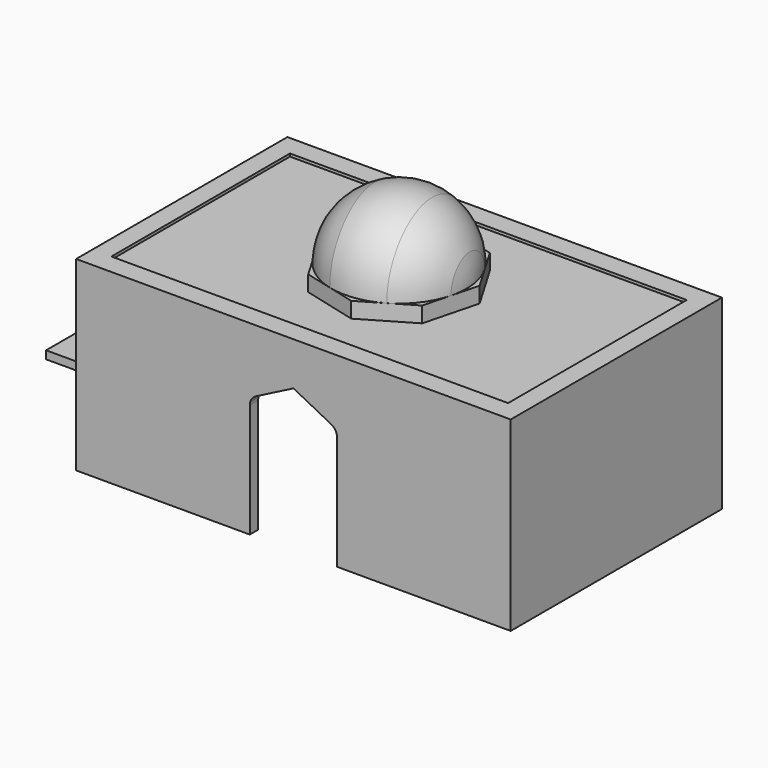
from build123d import *

# Parameters (mm, degrees)
F0_W      = 252.6827454567
F0_H      = 153.5182595253
F1_DEPTH  = 106.6326349974
F3_DEPTH  = 9.122794494
F6_W      = 252.6827454567
F6_H      = 153.5182595253
F6_W_2    = 230.6998372078
F6_H_2    = 129.8055052757
F7_DEPTH  = 1.6219746321
F9_DEPTH  = 6.3263718039
F10_W     = 237.7751469612
F10_H     = 141.5230035782
F11_DEPTH = 98.0363339186
F12_W     = 77.8074264526
F12_H     = 76.2286856771
F13_DEPTH = 4.6427845955


with BuildPart() as f1:
    # F0 (on Top) → F1 (new body)
    with BuildSketch(Plane.XY):
        Rectangle(F0_W, F0_H)
    extrude(amount=F1_DEPTH)

    # F2 (on face) → F3 (join)
    with BuildSketch(Plane.XY.offset(106.6326349974)):
        Polygon((-42.1391663881, -5.9115811494), (-25.6167711882, -33.9770094248), (5.9115811494, -42.1391663881), (33.9770094248, -25.6167711882), (42.1391663881, 5.9115811494), (25.6167711882, 33.9770094248), (-5.9115811494, 42.1391663881), (-33.9770094248, 25.6167711882), align=None)
    extrude(amount=F3_DEPTH)

    # F4 (on face) → F5 (revolve)
    with BuildSketch(Plane.XY.offset(115.7554294914)):
        with BuildLine():
            Line((-38.931513343, -5.4615888287), (38.931513343, 5.4615888287))
            ThreePointArc((38.931513343, 5.4615888287), (37.1179521217, 12.9518073642), (33.8779688325, 19.9442952117))
            ThreePointArc((33.8779688325, 19.9442952117), (23.6668107599, 31.3906634553), (9.852595347, 38.0580878216))
            ThreePointArc((9.852595347, 38.0580878216), (-5.461588509, 38.9315133879), (-19.9442950223, 33.8779689441))
            ThreePointArc((-19.9442950223, 33.8779689441), (-31.3906633892, 23.6668108477), (-38.0580878216, 9.852595347))
            ThreePointArc((-38.0580878216, 9.852595347), (-39.2489583443, 2.2385157127), (-38.931513343, -5.4615888287))
        make_face()
    revolve(axis=Axis((0, 0, 115.7554294914), (0.9903026693, 0.1389266826, 0)))

    # F6 (on face) → F7 (join)
    with BuildSketch(Plane.XY.offset(106.6326349974)):
        Rectangle(F6_W, F6_H)
        Rectangle(F6_W_2, F6_H_2, mode=Mode.SUBTRACT)
        Polygon((-33.9770094248, 25.6167711882), (-42.1391663881, -5.9115811494), (-25.6167711882, -33.9770094248), (5.9115811494, -42.1391663881), (33.9770094248, -25.6167711882), (42.1391663881, 5.9115811494), (25.6167711882, 33.9770094248), (-5.9115811494, 42.1391663881), align=None)
    extrude(amount=F7_DEPTH)

    # F8 (on face) → F9 (cut)
    with BuildSketch(Plane.XZ.offset(76.7591297626)):
        with BuildLine():
            Line((0, 83.0959156156), (0, 0))
            Line((0, 0), (25.3710448742, 0))
            Line((25.3710448742, 0), (25.3710448742, 66.2313618939))
            ThreePointArc((25.3710448742, 66.2313618939), (24.438075472, 69.544710578), (21.9133190466, 71.8844362886))
            Line((21.9133190466, 71.8844362886), (0, 83.0959156156))
        make_face()
        with BuildLine():
            Line((-25.3710448742, 0), (0, 0))
            Line((0, 0), (0, 83.0959156156))
            Line((0, 83.0959156156), (-21.9133190466, 71.8844362886))
            ThreePointArc((-21.9133190466, 71.8844362886), (-24.438075472, 69.544710578), (-25.3710448742, 66.2313618939))
            Line((-25.3710448742, 66.2313618939), (-25.3710448742, 0))
        make_face()
    extrude(amount=-F9_DEPTH, mode=Mode.SUBTRACT)

    # F10 (on face) → F11 (cut)
    with BuildSketch(Plane(origin=(0, 0, 0), x_dir=(1, 0, 0), z_dir=(0, 0, -1))):
        Rectangle(F10_W, F10_H)
    extrude(amount=-F11_DEPTH, mode=Mode.SUBTRACT)


with BuildPart() as f13:
    # F12 (on Top) → F13 (new body)
    with BuildSketch(Plane.XY):
        with Locations((-166.3370728493, 38.1143428385)):
            Rectangle(F12_W, F12_H)
    extrude(amount=F13_DEPTH)


solid = Compound([f1.part, f13.part])
